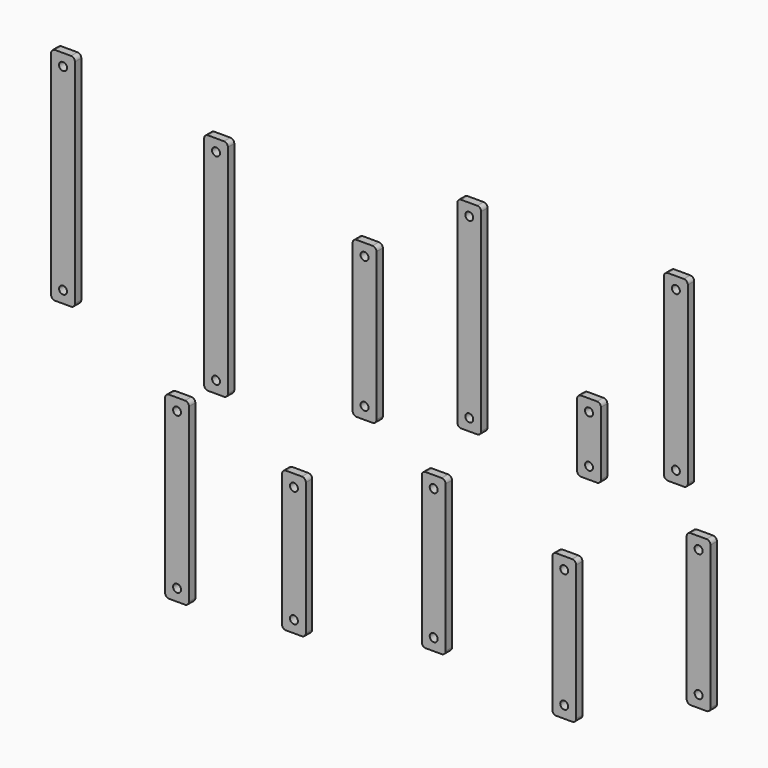
from build123d import *

# Parameters (mm, degrees)
F0_R     = 6.35
F1_DEPTH = 12.7


with BuildPart() as f1:
    # F0 (on Front) → F1 (new body)
    with BuildSketch(Plane.XZ):
        with BuildLine():
            ThreePointArc((-1231.649199, 174.49672), (-1236.139327, 172.636848), (-1237.999199, 168.14672))
            Line((-1237.999199, 168.14672), (-1237.999199, -171.70528))
            ThreePointArc((-1237.999199, -171.70528), (-1236.139327, -176.195408), (-1231.649199, -178.05528))
            Line((-1231.649199, -178.05528), (-1206.249199, -178.05528))
            ThreePointArc((-1206.249199, -178.05528), (-1201.759071, -176.195408), (-1199.899199, -171.70528))
            Line((-1199.899199, -171.70528), (-1199.899199, 168.14672))
            ThreePointArc((-1199.899199, 168.14672), (-1201.759071, 172.636848), (-1206.249199, 174.49672))
            Line((-1206.249199, 174.49672), (-1231.649199, 174.49672))
        make_face()
        with Locations((-1218.949199, -159.00528)):
            Circle(F0_R, mode=Mode.SUBTRACT)
        with Locations((-1218.949199, 155.44672)):
            Circle(F0_R, mode=Mode.SUBTRACT)
        with BuildLine():
            ThreePointArc((-987.317422, 133.879909), (-991.80755, 132.020037), (-993.667422, 127.529909))
            Line((-993.667422, 127.529909), (-993.667422, -218.926091))
            ThreePointArc((-993.667422, -218.926091), (-991.80755, -223.416219), (-987.317422, -225.276091))
            Line((-987.317422, -225.276091), (-961.917422, -225.276091))
            ThreePointArc((-961.917422, -225.276091), (-957.427294, -223.416219), (-955.567422, -218.926091))
            Line((-955.567422, -218.926091), (-955.567422, 127.529909))
            ThreePointArc((-955.567422, 127.529909), (-957.427294, 132.020037), (-961.917422, 133.879909))
            Line((-961.917422, 133.879909), (-987.317422, 133.879909))
        make_face()
        with Locations((-974.617422, -206.226091)):
            Circle(F0_R, mode=Mode.SUBTRACT)
        with Locations((-974.617422, 114.829909)):
            Circle(F0_R, mode=Mode.SUBTRACT)
        with BuildLine():
            ThreePointArc((-750.116029, 64.084781), (-754.606157, 62.224909), (-756.466029, 57.734781))
            Line((-756.466029, 57.734781), (-756.466029, -178.485219))
            ThreePointArc((-756.466029, -178.485219), (-754.606157, -182.975347), (-750.116029, -184.835219))
            Line((-750.116029, -184.835219), (-724.716029, -184.835219))
            ThreePointArc((-724.716029, -184.835219), (-720.225901, -182.975347), (-718.366029, -178.485219))
            Line((-718.366029, -178.485219), (-718.366029, 57.734781))
            ThreePointArc((-718.366029, 57.734781), (-720.225901, 62.224909), (-724.716029, 64.084781))
            Line((-724.716029, 64.084781), (-750.116029, 64.084781))
        make_face()
        with Locations((-737.416029, -165.785219)):
            Circle(F0_R, mode=Mode.SUBTRACT)
        with Locations((-737.416029, 45.034781)):
            Circle(F0_R, mode=Mode.SUBTRACT)
        with BuildLine():
            ThreePointArc((-582.908549, 174.836541), (-587.398678, 172.976669), (-589.258549, 168.486541))
            Line((-589.258549, 168.486541), (-589.258549, -140.377459))
            ThreePointArc((-589.258549, -140.377459), (-587.398678, -144.867587), (-582.908549, -146.727459))
            Line((-582.908549, -146.727459), (-557.508549, -146.727459))
            ThreePointArc((-557.508549, -146.727459), (-553.018421, -144.867587), (-551.158549, -140.377459))
            Line((-551.158549, -140.377459), (-551.158549, 168.486541))
            ThreePointArc((-551.158549, 168.486541), (-553.018421, 172.976669), (-557.508549, 174.836541))
            Line((-557.508549, 174.836541), (-582.908549, 174.836541))
        make_face()
        with Locations((-570.208549, -127.677459)):
            Circle(F0_R, mode=Mode.SUBTRACT)
        with Locations((-570.208549, 155.786541)):
            Circle(F0_R, mode=Mode.SUBTRACT)
        with BuildLine():
            Line((-359.881493, -146.069859), (-359.881493, -44.469859))
            ThreePointArc((-359.881493, -44.469859), (-361.741365, -39.97973), (-366.231493, -38.119859))
            Line((-366.231493, -38.119859), (-391.631493, -38.119859))
            ThreePointArc((-391.631493, -38.119859), (-396.121621, -39.97973), (-397.981493, -44.469859))
            Line((-397.981493, -44.469859), (-397.981493, -146.069859))
            ThreePointArc((-397.981493, -146.069859), (-396.121621, -150.559987), (-391.631493, -152.419859))
            Line((-391.631493, -152.419859), (-366.231493, -152.419859))
            ThreePointArc((-366.231493, -152.419859), (-361.741365, -150.559987), (-359.881493, -146.069859))
        make_face()
        with Locations((-378.931493, -133.369859)):
            Circle(F0_R, mode=Mode.SUBTRACT)
        with Locations((-378.931493, -57.169859)):
            Circle(F0_R, mode=Mode.SUBTRACT)
        with BuildLine():
            Line((-227.455665, 179.180842), (-252.855665, 179.180842))
            ThreePointArc((-252.855665, 179.180842), (-257.345793, 177.32097), (-259.205665, 172.830842))
            Line((-259.205665, 172.830842), (-259.205665, -106.569158))
            ThreePointArc((-259.205665, -106.569158), (-257.345793, -111.059286), (-252.855665, -112.919158))
            Line((-252.855665, -112.919158), (-227.455665, -112.919158))
            ThreePointArc((-227.455665, -112.919158), (-222.965537, -111.059286), (-221.105665, -106.569158))
            Line((-221.105665, -106.569158), (-221.105665, 172.830842))
            ThreePointArc((-221.105665, 172.830842), (-222.965537, 177.32097), (-227.455665, 179.180842))
        make_face()
        with Locations((-240.155665, -93.869158)):
            Circle(F0_R, mode=Mode.SUBTRACT)
        with Locations((-240.155665, 160.130842)):
            Circle(F0_R, mode=Mode.SUBTRACT)
        with BuildLine():
            ThreePointArc((-216.60749, -174.784592), (-221.097618, -176.644464), (-222.95749, -181.134592))
            Line((-222.95749, -181.134592), (-222.95749, -410.242592))
            ThreePointArc((-222.95749, -410.242592), (-221.097618, -414.73272), (-216.60749, -416.592592))
            Line((-216.60749, -416.592592), (-191.20749, -416.592592))
            ThreePointArc((-191.20749, -416.592592), (-186.717362, -414.73272), (-184.85749, -410.242592))
            Line((-184.85749, -410.242592), (-184.85749, -181.134592))
            ThreePointArc((-184.85749, -181.134592), (-186.717362, -176.644464), (-191.20749, -174.784592))
            Line((-191.20749, -174.784592), (-216.60749, -174.784592))
        make_face()
        with Locations((-203.90749, -397.542592)):
            Circle(F0_R, mode=Mode.SUBTRACT)
        with Locations((-203.90749, -193.834592)):
            Circle(F0_R, mode=Mode.SUBTRACT)
        with BuildLine():
            ThreePointArc((-431.25526, -272.762884), (-435.745388, -274.622756), (-437.60526, -279.112884))
            Line((-437.60526, -279.112884), (-437.60526, -495.012884))
            ThreePointArc((-437.60526, -495.012884), (-435.745388, -499.503012), (-431.25526, -501.362884))
            Line((-431.25526, -501.362884), (-405.85526, -501.362884))
            ThreePointArc((-405.85526, -501.362884), (-401.365132, -499.503012), (-399.50526, -495.012884))
            Line((-399.50526, -495.012884), (-399.50526, -279.112884))
            ThreePointArc((-399.50526, -279.112884), (-401.365132, -274.622756), (-405.85526, -272.762884))
            Line((-405.85526, -272.762884), (-431.25526, -272.762884))
        make_face()
        with Locations((-418.55526, -482.312884)):
            Circle(F0_R, mode=Mode.SUBTRACT)
        with Locations((-418.55526, -291.812884)):
            Circle(F0_R, mode=Mode.SUBTRACT)
        with BuildLine():
            ThreePointArc((-639.681318, -226.493052), (-644.171446, -228.352924), (-646.031318, -232.843052))
            Line((-646.031318, -232.843052), (-646.031318, -467.793052))
            ThreePointArc((-646.031318, -467.793052), (-644.171446, -472.28318), (-639.681318, -474.143052))
            Line((-639.681318, -474.143052), (-614.281318, -474.143052))
            ThreePointArc((-614.281318, -474.143052), (-609.79119, -472.28318), (-607.931318, -467.793052))
            Line((-607.931318, -467.793052), (-607.931318, -232.843052))
            ThreePointArc((-607.931318, -232.843052), (-609.79119, -228.352924), (-614.281318, -226.493052))
            Line((-614.281318, -226.493052), (-639.681318, -226.493052))
        make_face()
        with Locations((-626.981318, -455.093052)):
            Circle(F0_R, mode=Mode.SUBTRACT)
        with Locations((-626.981318, -245.543052)):
            Circle(F0_R, mode=Mode.SUBTRACT)
        with BuildLine():
            ThreePointArc((-862.883904, -297.047312), (-867.374032, -298.907184), (-869.233904, -303.397312))
            Line((-869.233904, -303.397312), (-869.233904, -515.233312))
            ThreePointArc((-869.233904, -515.233312), (-867.374032, -519.72344), (-862.883904, -521.583312))
            Line((-862.883904, -521.583312), (-837.483904, -521.583312))
            ThreePointArc((-837.483904, -521.583312), (-832.993776, -519.72344), (-831.133904, -515.233312))
            Line((-831.133904, -515.233312), (-831.133904, -303.397312))
            ThreePointArc((-831.133904, -303.397312), (-832.993776, -298.907184), (-837.483904, -297.047312))
            Line((-837.483904, -297.047312), (-862.883904, -297.047312))
        make_face()
        with Locations((-850.183904, -502.533312)):
            Circle(F0_R, mode=Mode.SUBTRACT)
        with Locations((-850.183904, -316.097312)):
            Circle(F0_R, mode=Mode.SUBTRACT)
        with BuildLine():
            ThreePointArc((-1049.534121, -250.895224), (-1054.024249, -252.755095), (-1055.884121, -257.245224))
            Line((-1055.884121, -257.245224), (-1055.884121, -531.565224))
            ThreePointArc((-1055.884121, -531.565224), (-1054.024249, -536.055352), (-1049.534121, -537.915224))
            Line((-1049.534121, -537.915224), (-1024.134121, -537.915224))
            ThreePointArc((-1024.134121, -537.915224), (-1019.643993, -536.055352), (-1017.784121, -531.565224))
            Line((-1017.784121, -531.565224), (-1017.784121, -257.245224))
            ThreePointArc((-1017.784121, -257.245224), (-1019.643993, -252.755095), (-1024.134121, -250.895224))
            Line((-1024.134121, -250.895224), (-1049.534121, -250.895224))
        make_face()
        with Locations((-1036.834121, -518.865224)):
            Circle(F0_R, mode=Mode.SUBTRACT)
        with Locations((-1036.834121, -269.945224)):
            Circle(F0_R, mode=Mode.SUBTRACT)
    extrude(amount=F1_DEPTH)


solid = f1.part
